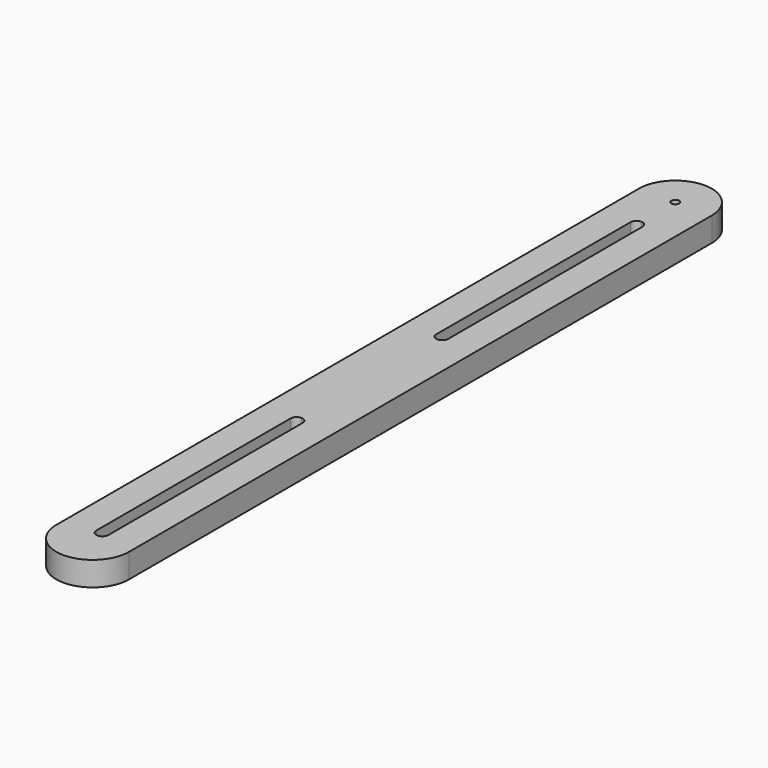
from build123d import *

# Parameters (mm, degrees)
F1_DEPTH = 10


with BuildPart() as f1:
    # F0 (on Top) → F1 (new body)
    with BuildSketch(Plane.XY):
        with BuildLine():
            ThreePointArc((1.59, 0), (-1.1243, 1.1243), (0, -1.59))
            ThreePointArc((0, -1.59), (1.1243, -1.1243), (1.59, 0))
        make_face()
        with BuildLine():
            ThreePointArc((15, 0), (0, 15), (-15, 0))
            Line((-15, 0), (-15, -300))
            ThreePointArc((-15, -300), (0, -315), (15, -300))
            Line((15, -300), (15, 0))
        make_face()
        with BuildLine():
            ThreePointArc((-2.5, -195), (-1.767767, -193.232233), (0, -192.5))
            ThreePointArc((0, -192.5), (1.767767, -193.232233), (2.5, -195))
            Line((2.5, -195), (2.5, -295))
            ThreePointArc((2.5, -295), (1.767767, -296.767767), (0, -297.5))
            ThreePointArc((0, -297.5), (-1.767767, -296.767767), (-2.5, -295))
            Line((-2.5, -295), (-2.5, -195))
        make_face(mode=Mode.SUBTRACT)
        with BuildLine():
            ThreePointArc((-2.5, -20), (-1.767767, -18.232233), (0, -17.5))
            ThreePointArc((0, -17.5), (1.767767, -18.232233), (2.5, -20))
            Line((2.5, -20), (2.5, -120))
            ThreePointArc((2.5, -120), (1.767767, -121.767767), (0, -122.5))
            ThreePointArc((0, -122.5), (-1.767767, -121.767767), (-2.5, -120))
            Line((-2.5, -120), (-2.5, -20))
        make_face(mode=Mode.SUBTRACT)
        with BuildLine():
            ThreePointArc((1.59, 0), (1.1243, -1.1243), (0, -1.59))
            ThreePointArc((0, -1.59), (-1.1243, 1.1243), (1.59, 0))
        make_face(mode=Mode.SUBTRACT)
    extrude(amount=F1_DEPTH)


solid = f1.part
